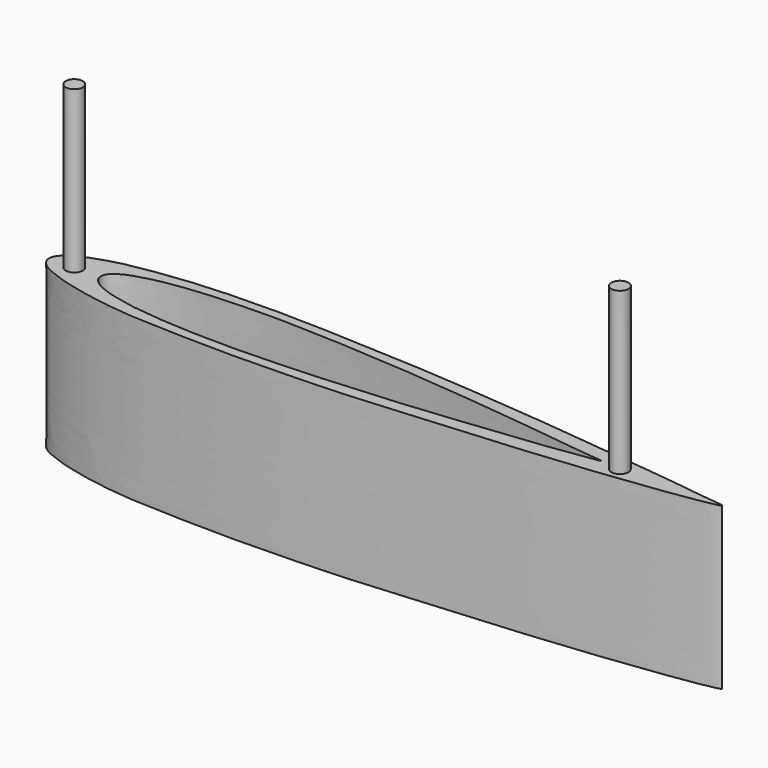
from build123d import *

# Parameters (mm, degrees)
F1_DEPTH = 50.8
F2_R     = 2.6867576715
F3_DEPTH = 50.8


with BuildPart() as f1:
    # F0 (on Top) → F1 (new body)
    with BuildSketch(Plane.XY):
        with BuildLine():
            add(Edge.make_bspline(
                [(-119.1587049222, 2.1965827328), (-118.9747786113, 3.0890869227), (-117.654335862, 5.1139558368), (-114.1005908707, 7.2417144055), (-107.8930828281, 9.4139766414), (-101.5461542566, 11.2019352986), (-87.7916262642, 13.2251539783), (-74.3605026022, 14.3071007188), (-53.7617678598, 14.6704676728), (-33.3937188357, 13.82785177), (-10.0840382106, 12.7650441431), (4.9703207703, 11.5868358013), (24.244150175, 10.0019743729), (38.9510114689, 8.4627342293), (58.4711547984, 6.4430523404), (70.1430207166, 5.0578051318), (81.9495053951, 3.7092885727), (85.863007584, 2.8624983528), (96.3859378738, 2.3460040371), (79.0903739772, -0.4587638483), (65.4912339792, -2.2389221505), (44.2969503917, -4.5987728737), (29.7969710061, -5.8444095528), (4.4716354402, -7.7766186775), (-14.3282115997, -9.5112581682), (-29.6646661917, -10.1534957703), (-40.863935484, -10.4724876057), (-57.5778262405, -10.7580088439), (-76.0734042234, -10.1721007887), (-86.3053144393, -9.7066162907), (-93.6057351198, -8.7690355246), (-99.5054258009, -7.8030635623), (-102.5495551773, -6.9967353909), (-107.9703850518, -5.8847309034), (-112.2862173389, -4.2768828783), (-114.9065501896, -3.2906443605), (-117.2103326643, -1.9720417267), (-119.0060411711, -0.0651209442), (-119.3140975131, 1.4425386927), (-119.1587049222, 2.1965827328)],
                knots=[0, 0, 0, 0, 0.0145383614, 0.031521527, 0.0525461534, 0.07420324, 0.1047519338, 0.1359385841, 0.1733506061, 0.21180044, 0.251663006, 0.284552904, 0.3205340478, 0.3533805199, 0.3898478716, 0.4194051429, 0.4470310073, 0.4657878848, 0.4851207507, 0.5126296414, 0.5466922885, 0.5842050169, 0.6167639528, 0.6584277787, 0.6954408139, 0.7274400188, 0.755166441, 0.7894017506, 0.8256044003, 0.8521948204, 0.8747415286, 0.8946934059, 0.909568588, 0.9290830117, 0.9471639349, 0.9609822985, 0.9744392484, 0.9877170719, 1, 1, 1, 1], degree=3))
        make_face()
        with BuildLine():
            add(Edge.make_bspline(
                [(-103.3074781299, 2.1965827328), (-103.2954796985, 2.4248304866), (-103.1627540412, 3.2413661571), (-102.3393969784, 4.5179558608), (-100.0787481147, 6.1017303985), (-98.1706983806, 6.8986644489), (-96.384766213, 7.4976268049), (-94.7232074224, 8.0349016977), (-91.5928498579, 8.792413948), (-89.6104947074, 9.2070500269), (-85.7880311625, 9.8552161338), (-83.2628827771, 10.1672222789), (-79.5055559667, 10.6458806424), (-73.1677666118, 11.0540834488), (-66.9408673812, 11.4068477777), (-61.1378365088, 11.4631653124), (-55.8877504256, 11.5948690223), (-49.697641068, 11.4258360607), (-42.9457501147, 11.2675754363), (-36.6267372868, 10.9898161338), (-29.0414550731, 10.5410439815), (-22.1444885148, 10.1672850672), (-13.0084800399, 9.4866715845), (-9.6322369657, 9.1884248647), (-4.2939575974, 8.729133571), (0.0440903086, 8.3763185185), (4.8730054858, 7.9307331172), (12.2175487134, 7.1132383536), (17.4926440622, 6.6270098243), (26.4942212921, 5.5335195782), (31.3532220703, 5.0468262), (37.2284342457, 4.3055043244), (43.2608765778, 3.5104588125), (47.394741604, 2.8324539054), (57.1808328383, 2.3061064932), (48.1543554145, 1.2299112262), (43.9916945071, 0.5802848274), (37.6126815106, -0.3260628073), (32.1621792859, -0.7878520087), (24.956352282, -1.7851780846), (17.3877112704, -2.5062254518), (9.8440454778, -3.3546689201), (3.1896825014, -4.0449886843), (-4.2486187242, -4.7365369964), (-13.3524790286, -5.4745042271), (-22.7646908036, -6.0797058574), (-32.291218118, -6.8281643692), (-43.8359460244, -7.1824550417), (-51.7096877303, -7.4840568913), (-57.1166844678, -7.4779134694), (-62.6887524683, -7.4544571964), (-67.7489800024, -7.2808319064), (-71.9258503083, -7.1425511114), (-76.83820751, -6.7691004709), (-80.4658639549, -6.4697211861), (-82.8678691576, -6.1259060203), (-84.9719660232, -5.9761812982), (-87.8394897873, -5.4936745142), (-90.3019014691, -5.0429248261), (-92.9882372759, -4.411002955), (-95.7477168923, -3.7839433714), (-98.4448901307, -2.7733683423), (-100.6591785763, -1.7027476104), (-101.884060725, -0.7722148651), (-102.9792142901, 0.5118107968), (-103.2568033995, 1.4075743637), (-103.2953478678, 1.8737366916), (-103.3144967261, 2.0630670453), (-103.3074781299, 2.1965827328)],
                knots=[0, 0, 0, 0, 0.0069836231, 0.0158179815, 0.0276473284, 0.0381033964, 0.047674088, 0.057284652, 0.0698907569, 0.0804846787, 0.0943139741, 0.1058366149, 0.1195198542, 0.1376350394, 0.1557383307, 0.1728622529, 0.1892112814, 0.207009381, 0.2255863444, 0.2436865921, 0.2631425842, 0.2825700919, 0.3038613548, 0.3173507141, 0.3335475033, 0.3485477056, 0.3643655744, 0.3835547292, 0.400607456, 0.4218411766, 0.4379543741, 0.4552355577, 0.4725290895, 0.4889146284, 0.5061877332, 0.5223770066, 0.5388329909, 0.5564636404, 0.5733840908, 0.5925521249, 0.6124723011, 0.6321415543, 0.6505756267, 0.6700586221, 0.6917301625, 0.713654987, 0.7359554349, 0.7603798968, 0.7804470392, 0.796932674, 0.813789684, 0.8298372209, 0.8445347503, 0.8604436896, 0.8741505166, 0.8850899668, 0.895457211, 0.9075943389, 0.9190174493, 0.9308290887, 0.9429116896, 0.9551537784, 0.966271869, 0.975193389, 0.9843936692, 0.9912369988, 0.9959148634, 1, 1, 1, 1], degree=3))
        make_face(mode=Mode.SUBTRACT)
    extrude(amount=F1_DEPTH)

    # F2 (on face) → F3 (join)
    with BuildSketch(Plane.XY.offset(50.8)):
        with Locations((-111.3169044256, 1.6373802209)):
            Circle(F2_R)
        with Locations((60.4362350958, 1.6373802209)):
            Circle(F2_R)
    extrude(amount=F3_DEPTH)


solid = f1.part
